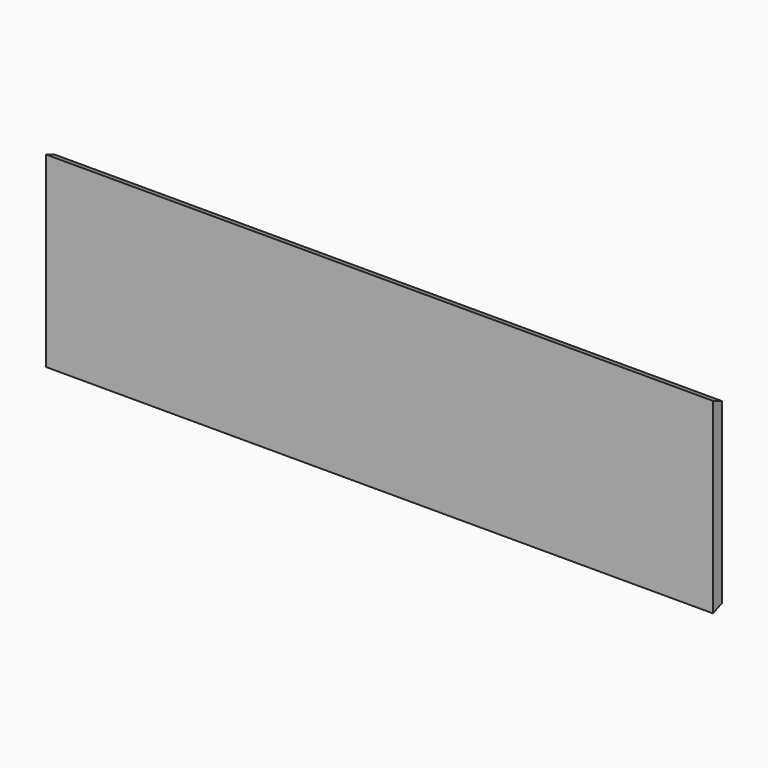
from build123d import *

# Parameters (mm, degrees)
F0_W     = 762
F0_H     = 203.2
F1_DEPTH = 12.7
F3_DEPTH = 762


with BuildPart() as f1:
    # F0 (on Front) → F1 (new body)
    with BuildSketch(Plane.XZ):
        with Locations((381, 101.6)):
            Rectangle(F0_W, F0_H)
    extrude(amount=F1_DEPTH)

    # F2 (on face) → F3 (join, through all)
    with BuildSketch(Plane.YZ.offset(762)):
        Polygon((-12.7, 203.2), (0, 203.2), (-12.7, 208.460512), align=None)
        Polygon((-12.7, -5.260512), (0, 0), (-12.7, 0), align=None)
    extrude(amount=-F3_DEPTH)


solid = f1.part
